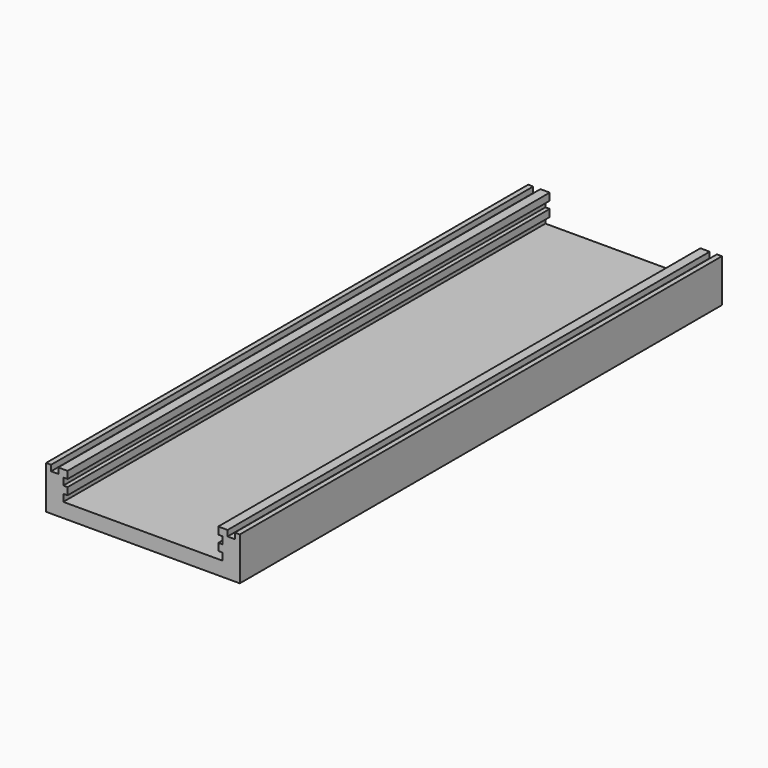
from build123d import *

# Parameters (mm, degrees)
F0_W     = 135
F0_H     = 30
F1_DEPTH = 420
F3_DEPTH = 420
F4_W     = 5
F4_H     = 420
F5_DEPTH = 4


with BuildPart() as f1:
    # F0 (on Front) → F1 (new body)
    with BuildSketch(Plane.XZ):
        with Locations((0, 15)):
            Rectangle(F0_W, F0_H)
    extrude(amount=F1_DEPTH)

    # F2 (on face) → F3 (cut)
    with BuildSketch(Plane.XZ.offset(420)):
        Polygon((0, 30), (-52.5, 30), (-52.5, 25), (-55.5, 25), (-55.5, 20), (-52.5, 20), (-52.5, 15), (-55.5, 15), (-55.5, 10), (0, 10), (55.5, 10), (55.5, 15), (52.5, 15), (52.5, 20), (55.5, 20), (55.5, 25), (52.5, 25), (52.5, 30), align=None)
    extrude(amount=-F3_DEPTH, mode=Mode.SUBTRACT)

    # F4 (on face) → F5 (cut)
    with BuildSketch(Plane.XY.offset(30)):
        with Locations((-61.5, -210)):
            Rectangle(F4_W, F4_H)
        with Locations((61.5, -210)):
            Rectangle(F4_W, F4_H)
    extrude(amount=-F5_DEPTH, mode=Mode.SUBTRACT)


solid = f1.part
